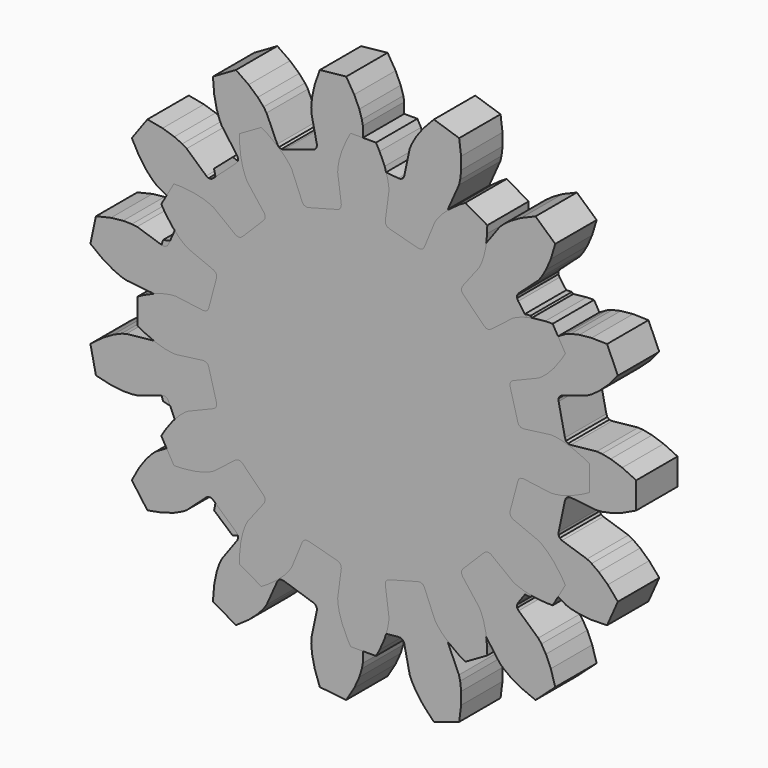
from build123d import *

# Parameters (mm, degrees)
F0_R     = 3.75
F1_DEPTH = 4
F3_DEPTH = 4
F5_DEPTH = 4
F7_DEPTH = 4
F9_DEPTH = 4


with BuildPart() as f1:
    # F0 (on Front) → F1 (new body)
    with BuildSketch(Plane.XZ):
        Polygon((7.89731, -9.5143), (9.06407, -8.12381), (8.97309, -7.83051), (8.64252, -7.00031), (8.29155, -6.35894), (7.96011, -5.89686), (7.68526, -5.5978), (7.50014, -5.43929), (5.57241, -4.33292), (5.42795, -4.19005), (5.37428, -3.99409), (5.42578, -3.79756), (6.12261, -1.88303), (6.20949, -1.69937), (6.37657, -1.58376), (6.57906, -1.56718), (8.76695, -1.95876), (9.01065, -1.95633), (9.41343, -1.90391), (9.96434, -1.76298), (10.64546, -1.49726), (11.43233, -1.07378), (11.69056, -0.90758), (11.69056, 0.90758), (11.43233, 1.07378), (10.64546, 1.49726), (9.96434, 1.76298), (9.41343, 1.90391), (9.01065, 1.95633), (8.76695, 1.95876), (6.57906, 1.56718), (6.37657, 1.58376), (6.20949, 1.69937), (6.12261, 1.88303), (5.42578, 3.79756), (5.37428, 3.99409), (5.42795, 4.19005), (5.57241, 4.33292), (7.50014, 5.43929), (7.68526, 5.5978), (7.96011, 5.89686), (8.29155, 6.35894), (8.64252, 7.00031), (8.97309, 7.83051), (9.06407, 8.12381), (7.89731, 9.5143), (7.59266, 9.47563), (6.71768, 9.29424), (6.0251, 9.05998), (5.5125, 8.81382), (5.17025, 8.59508), (4.982, 8.44029), (3.55769, 6.73397), (3.39191, 6.61652), (3.18961, 6.59769), (3.005, 6.68253), (1.24056, 7.70122), (1.07478, 7.81868), (0.98994, 8.00329), (1.00877, 8.20559), (1.77433, 10.29224), (1.81426, 10.53266), (1.83257, 10.93843), (1.78945, 11.50544), (1.64604, 12.22235), (1.36563, 13.07081), (1.2468, 13.35398), (-0.54078, 13.66918), (-0.7493, 13.44373), (-1.30299, 12.74235), (-1.68295, 12.11772), (-1.9174, 11.59965), (-2.03897, 11.21209), (-2.08368, 10.97251), (-2.07797, 8.74987), (-2.12946, 8.55333), (-2.27233, 8.40887), (-2.46828, 8.3552), (-4.47473, 8.00141), (-4.67722, 7.98482), (-4.86088, 8.0717), (-4.97649, 8.23878), (-5.73131, 10.32934), (-5.85526, 10.53917), (-6.10206, 10.86178), (-6.49956, 11.26842), (-7.07024, 11.72543), (-7.83042, 12.19514), (-8.10347, 12.33567), (-9.67544, 11.42809), (-9.69026, 11.12136), (-9.66357, 10.22817), (-9.55313, 9.50544), (-9.39972, 8.95787), (-9.24373, 8.58284), (-9.12399, 8.37057), (-7.69092, 6.6716), (-7.60404, 6.48794), (-7.62062, 6.28545), (-7.73623, 6.11837), (-9.04584, 4.55764), (-9.1903, 4.41477), (-9.38684, 4.36328), (-9.5828, 4.41695), (-11.50481, 5.53322), (-11.73464, 5.61429), (-12.13106, 5.70278), (-12.69695, 5.75878), (-13.42788, 5.74204), (-14.31213, 5.61322), (-14.61164, 5.54537), (-15.23246, 3.83968), (-15.04664, 3.59518), (-14.45206, 2.92811), (-13.9029, 2.44546), (-13.43341, 2.12461), (-13.07285, 1.93758), (-12.84468, 1.85195), (-10.65481, 1.47162), (-10.4702, 1.38678), (-10.35274, 1.221), (-10.33391, 1.0187), (-10.33391, -1.0187), (-10.35274, -1.221), (-10.4702, -1.38678), (-10.65481, -1.47162), (-12.84468, -1.85195), (-13.07285, -1.93758), (-13.43341, -2.12461), (-13.9029, -2.44546), (-14.45206, -2.92811), (-15.04664, -3.59518), (-15.23246, -3.83968), (-14.61164, -5.54537), (-14.31213, -5.61322), (-13.42788, -5.74204), (-12.69695, -5.75878), (-12.13106, -5.70278), (-11.73464, -5.61429), (-11.50481, -5.53322), (-9.5828, -4.41695), (-9.38684, -4.36328), (-9.1903, -4.41477), (-9.04584, -4.55764), (-7.73623, -6.11837), (-7.62062, -6.28545), (-7.60404, -6.48794), (-7.69092, -6.6716), (-9.12399, -8.37057), (-9.24373, -8.58284), (-9.39972, -8.95787), (-9.55313, -9.50544), (-9.66357, -10.22817), (-9.69026, -11.12136), (-9.67544, -11.42809), (-8.10347, -12.33567), (-7.83042, -12.19514), (-7.07024, -11.72543), (-6.49956, -11.26842), (-6.10206, -10.86178), (-5.85526, -10.53917), (-5.73131, -10.32934), (-4.97649, -8.23878), (-4.86088, -8.0717), (-4.67722, -7.98482), (-4.47473, -8.00141), (-2.46828, -8.3552), (-2.27233, -8.40887), (-2.12946, -8.55333), (-2.07797, -8.74987), (-2.08368, -10.97251), (-2.03897, -11.21209), (-1.9174, -11.59965), (-1.68295, -12.11772), (-1.30299, -12.74235), (-0.7493, -13.44373), (-0.54078, -13.66918), (1.2468, -13.35398), (1.36563, -13.07081), (1.64604, -12.22235), (1.78945, -11.50544), (1.83257, -10.93843), (1.81426, -10.53266), (1.77433, -10.29224), (1.00877, -8.20559), (0.98994, -8.00329), (1.07478, -7.81868), (1.24056, -7.70122), (3.005, -6.68253), (3.18961, -6.59769), (3.39191, -6.61652), (3.55769, -6.73397), (4.982, -8.44029), (5.17025, -8.59508), (5.5125, -8.81382), (6.0251, -9.05998), (6.71768, -9.29424), (7.59266, -9.47563), align=None)
        with Locations((-2.02945, 0)):
            Circle(F0_R, mode=Mode.SUBTRACT)
    extrude(amount=F1_DEPTH)


with BuildPart() as f3:
    # F2 (on Front) → F3 (new body)
    with BuildSketch(Plane.XZ):
        Polygon((11.56193, -9.55625), (12.66136, -8.043), (12.24856, -7.14688), (11.82184, -6.45563), (11.42721, -5.96219), (11.10485, -5.64633), (10.89022, -5.48122), (8.9351, -4.49043), (8.78336, -4.35532), (8.71951, -4.16244), (8.76065, -3.96348), (9.41719, -1.94286), (9.50085, -1.75771), (9.66588, -1.6392), (9.86806, -1.61909), (12.03215, -1.96671), (12.30284, -1.95929), (12.74929, -1.89324), (13.35859, -1.72599), (14.11012, -1.41758), (14.97082, -0.93524), (14.97082, 0.93524), (14.11012, 1.41758), (13.35859, 1.72599), (12.74929, 1.89324), (12.30284, 1.95929), (12.03215, 1.96671), (9.86806, 1.61909), (9.66588, 1.6392), (9.50085, 1.75771), (9.41719, 1.94286), (8.76065, 3.96348), (8.71951, 4.16244), (8.78336, 4.35532), (8.9351, 4.49043), (10.89022, 5.48122), (11.10485, 5.64633), (11.42721, 5.96219), (11.82184, 6.45563), (12.24856, 7.14688), (12.66136, 8.043), (11.56193, 9.55625), (10.5821, 9.44057), (9.79281, 9.24834), (9.20158, 9.02551), (8.80157, 8.81653), (8.57821, 8.66343), (7.03175, 7.11017), (6.85636, 7.00761), (6.65319, 7.00648), (6.47668, 7.10709), (4.75784, 8.3559), (4.60761, 8.49269), (4.5459, 8.68626), (4.58924, 8.88476), (5.5886, 10.83551), (5.66518, 11.09525), (5.74032, 11.54026), (5.76955, 12.17141), (5.70847, 12.98147), (5.5157, 13.94909), (3.73677, 14.5271), (3.01207, 13.85758), (2.48652, 13.23813), (2.13917, 12.71034), (1.93839, 12.30615), (1.84768, 12.05101), (1.50956, 9.88541), (1.42795, 9.69934), (1.26424, 9.57901), (1.0623, 9.55665), (-1.0623, 9.55665), (-1.26424, 9.57901), (-1.42795, 9.69934), (-1.50956, 9.88541), (-1.84768, 12.05101), (-1.93839, 12.30615), (-2.13917, 12.71034), (-2.48652, 13.23813), (-3.01207, 13.85758), (-3.73677, 14.5271), (-5.5157, 13.94909), (-5.70847, 12.98147), (-5.76955, 12.17141), (-5.74032, 11.54026), (-5.66518, 11.09525), (-5.5886, 10.83551), (-4.58924, 8.88476), (-4.5459, 8.68626), (-4.60761, 8.49269), (-4.75784, 8.3559), (-6.47668, 7.10709), (-6.65319, 7.00648), (-6.85636, 7.00761), (-7.03175, 7.11017), (-8.57821, 8.66343), (-8.80157, 8.81653), (-9.20158, 9.02551), (-9.79281, 9.24834), (-10.5821, 9.44057), (-11.56193, 9.55625), (-12.66136, 8.043), (-12.24856, 7.14688), (-11.82184, 6.45563), (-11.42721, 5.96219), (-11.10485, 5.64633), (-10.89022, 5.48122), (-8.9351, 4.49043), (-8.78336, 4.35532), (-8.71951, 4.16244), (-8.76065, 3.96348), (-9.41719, 1.94286), (-9.50085, 1.75771), (-9.66588, 1.6392), (-9.86806, 1.61909), (-12.03215, 1.96671), (-12.30284, 1.95929), (-12.74929, 1.89324), (-13.35859, 1.72599), (-14.11012, 1.41758), (-14.97082, 0.93524), (-14.97082, -0.93524), (-14.11012, -1.41758), (-13.35859, -1.72599), (-12.74929, -1.89324), (-12.30284, -1.95929), (-12.03215, -1.96671), (-9.86806, -1.61909), (-9.66588, -1.6392), (-9.50085, -1.75771), (-9.41719, -1.94286), (-8.76065, -3.96348), (-8.71951, -4.16244), (-8.78336, -4.35532), (-8.9351, -4.49043), (-10.89022, -5.48122), (-11.10485, -5.64633), (-11.42721, -5.96219), (-11.82184, -6.45563), (-12.24856, -7.14688), (-12.66136, -8.043), (-11.56193, -9.55625), (-10.5821, -9.44057), (-9.79281, -9.24834), (-9.20158, -9.02551), (-8.80157, -8.81653), (-8.57821, -8.66343), (-7.03175, -7.11017), (-6.85636, -7.00761), (-6.65319, -7.00648), (-6.47668, -7.10709), (-4.75784, -8.3559), (-4.60761, -8.49269), (-4.5459, -8.68626), (-4.58924, -8.88476), (-5.5886, -10.83551), (-5.66518, -11.09525), (-5.74032, -11.54026), (-5.76955, -12.17141), (-5.70847, -12.98147), (-5.5157, -13.94909), (-3.73677, -14.5271), (-3.01207, -13.85758), (-2.48652, -13.23813), (-2.13917, -12.71034), (-1.93839, -12.30615), (-1.84768, -12.05101), (-1.50956, -9.88541), (-1.42795, -9.69934), (-1.26424, -9.57901), (-1.0623, -9.55665), (1.0623, -9.55665), (1.26424, -9.57901), (1.42795, -9.69934), (1.50956, -9.88541), (1.84768, -12.05101), (1.93839, -12.30615), (2.13917, -12.71034), (2.48652, -13.23813), (3.01207, -13.85758), (3.73677, -14.5271), (5.5157, -13.94909), (5.70847, -12.98147), (5.76955, -12.17141), (5.74032, -11.54026), (5.66518, -11.09525), (5.5886, -10.83551), (4.58924, -8.88476), (4.5459, -8.68626), (4.60761, -8.49269), (4.75784, -8.3559), (6.47668, -7.10709), (6.65319, -7.00648), (6.85636, -7.00761), (7.03175, -7.11017), (8.57821, -8.66343), (8.80157, -8.81653), (9.20158, -9.02551), (9.79281, -9.24834), (10.5821, -9.44057), align=None)
        Polygon((2.47861, 0.32632), (2.5, 0), (2.47861, -0.32632), (2.41481, -0.64705), (2.3097, -0.95671), (2.16506, -1.25), (1.98338, -1.5219), (1.76777, -1.76777), (1.5219, -1.98338), (1.25, -2.16506), (0.95671, -2.3097), (0.64705, -2.41481), (0.32632, -2.47861), (0, -2.5), (-0.32632, -2.47861), (-0.64705, -2.41481), (-0.95671, -2.3097), (-1.25, -2.16506), (-1.5219, -1.98338), (-1.76777, -1.76777), (-1.98338, -1.5219), (-2.16506, -1.25), (-2.3097, -0.95671), (-2.41481, -0.64705), (-2.47861, -0.32632), (-2.5, 0), (-2.47861, 0.32632), (-2.41481, 0.64705), (-2.3097, 0.95671), (-2.16506, 1.25), (-1.98338, 1.5219), (-1.76777, 1.76777), (-1.5219, 1.98338), (-1.25, 2.16506), (-0.95671, 2.3097), (-0.64705, 2.41481), (-0.32632, 2.47861), (0, 2.5), (0.32632, 2.47861), (0.64705, 2.41481), (0.95671, 2.3097), (1.25, 2.16506), (1.5219, 1.98338), (1.76777, 1.76777), (1.98338, 1.5219), (2.16506, 1.25), (2.3097, 0.95671), (2.41481, 0.64705), align=None, mode=Mode.SUBTRACT)
    extrude(amount=F3_DEPTH)


with BuildPart() as f5:
    # F4 (on Front) → F5 (new body)
    with BuildSketch(Plane.XZ):
        Polygon((12.93465, -9.5768), (13.97151, -7.96341), (13.60427, -7.27733), (13.10274, -6.53775), (12.64581, -6.01406), (12.27665, -5.68212), (12.033, -5.51078), (10.06565, -4.6166), (9.90826, -4.48812), (9.8362, -4.29815), (9.86878, -4.09761), (10.48677, -1.99294), (10.56778, -1.80662), (10.73111, -1.68576), (10.93297, -1.66276), (13.07144, -1.97417), (13.36905, -1.96175), (13.85906, -1.88209), (14.52659, -1.68857), (15.34835, -1.33755), (16.02821, -0.95892), (16.02821, 0.95892), (15.34835, 1.33755), (14.52659, 1.68857), (13.85906, 1.88209), (13.36905, 1.96175), (13.07144, 1.97417), (10.93297, 1.66276), (10.73111, 1.68576), (10.56778, 1.80662), (10.48677, 1.99294), (9.86878, 4.09761), (9.8362, 4.29815), (9.90826, 4.48812), (10.06565, 4.6166), (12.033, 5.51078), (12.27665, 5.68212), (12.64581, 6.01406), (13.10274, 6.53775), (13.60427, 7.27733), (13.97151, 7.96341), (12.93465, 9.5768), (12.15801, 9.52776), (11.27692, 9.37878), (10.61074, 9.18069), (10.15545, 8.98278), (9.89837, 8.83233), (8.26773, 7.41421), (8.08548, 7.32443), (7.88274, 7.3378), (7.71386, 7.45074), (6.0561, 8.88719), (5.92027, 9.03829), (5.87819, 9.23705), (5.94112, 9.43023), (7.11274, 11.24609), (7.22508, 11.52196), (7.35617, 12.00078), (7.45744, 12.68838), (7.47951, 13.5817), (7.41752, 14.35741), (5.673, 15.15411), (5.04616, 14.69297), (4.38549, 14.0913), (3.93215, 13.56448), (3.65613, 13.15185), (3.52121, 12.88629), (2.91612, 10.8117), (2.81134, 10.63764), (2.63356, 10.53928), (2.43042, 10.54299), (0.25923, 10.85516), (0.06327, 10.90883), (-0.07959, 11.05329), (-0.13109, 11.24983), (-0.12719, 13.41085), (-0.18183, 13.70366), (-0.33042, 14.17735), (-0.61697, 14.81054), (-1.08137, 15.57398), (-1.5529, 16.19304), (-3.45122, 15.9201), (-3.72923, 15.19327), (-3.95973, 14.32992), (-4.05629, 13.64165), (-4.0654, 13.14529), (-4.03534, 12.84894), (-3.42276, 10.77656), (-3.4168, 10.57347), (-3.51318, 10.39461), (-3.68608, 10.28791), (-5.68138, 9.37669), (-5.87524, 9.3159), (-6.07353, 9.36018), (-6.22311, 9.49768), (-7.38816, 11.31776), (-7.59244, 11.53454), (-7.97353, 11.8527), (-8.55693, 12.23046), (-9.36035, 12.62163), (-10.09171, 12.88749), (-11.54112, 11.63157), (-11.38205, 10.86982), (-11.1092, 10.0189), (-10.81831, 9.38769), (-10.55763, 8.9652), (-10.37212, 8.73215), (-8.73637, 7.31993), (-8.62156, 7.1523), (-8.60594, 6.94973), (-8.6937, 6.76649), (-9.87961, 4.92118), (-10.00984, 4.76523), (-10.20059, 4.69529), (-10.40076, 4.73009), (-12.36487, 5.63136), (-12.65393, 5.70329), (-13.14653, 5.76491), (-13.84154, 5.76729), (-14.72891, 5.662), (-15.4879, 5.49025), (-16.02822, 3.6501), (-15.48257, 3.09527), (-14.79299, 2.52695), (-14.20702, 2.1532), (-13.7593, 1.93872), (-13.47725, 1.84296), (-11.33767, 1.53927), (-11.15046, 1.46033), (-11.0278, 1.29836), (-11.00256, 1.09676), (-11.00256, -1.09676), (-11.0278, -1.29836), (-11.15046, -1.46033), (-11.33767, -1.53927), (-13.47725, -1.84296), (-13.7593, -1.93872), (-14.20702, -2.1532), (-14.79299, -2.52695), (-15.48257, -3.09527), (-16.02822, -3.6501), (-15.4879, -5.49025), (-14.72891, -5.662), (-13.84154, -5.76729), (-13.14653, -5.76491), (-12.65393, -5.70329), (-12.36487, -5.63136), (-10.40076, -4.73009), (-10.20059, -4.69529), (-10.00984, -4.76523), (-9.87961, -4.92118), (-8.6937, -6.76649), (-8.60594, -6.94973), (-8.62156, -7.1523), (-8.73637, -7.31993), (-10.37212, -8.73215), (-10.55763, -8.9652), (-10.81831, -9.38769), (-11.1092, -10.0189), (-11.38205, -10.86982), (-11.54112, -11.63157), (-10.09171, -12.88749), (-9.36035, -12.62163), (-8.55693, -12.23046), (-7.97353, -11.8527), (-7.59244, -11.53454), (-7.38816, -11.31776), (-6.22311, -9.49768), (-6.07353, -9.36018), (-5.87524, -9.3159), (-5.68138, -9.37669), (-3.68608, -10.28791), (-3.51318, -10.39461), (-3.4168, -10.57347), (-3.42276, -10.77656), (-4.03534, -12.84894), (-4.0654, -13.14529), (-4.05629, -13.64165), (-3.95973, -14.32992), (-3.72923, -15.19327), (-3.45122, -15.9201), (-1.5529, -16.19304), (-1.08137, -15.57398), (-0.61697, -14.81054), (-0.33042, -14.17735), (-0.18183, -13.70366), (-0.12719, -13.41085), (-0.13109, -11.24983), (-0.07959, -11.05329), (0.06327, -10.90883), (0.25923, -10.85516), (2.43042, -10.54299), (2.63356, -10.53928), (2.81134, -10.63764), (2.91612, -10.8117), (3.52121, -12.88629), (3.65613, -13.15185), (3.93215, -13.56448), (4.38549, -14.0913), (5.04616, -14.69297), (5.673, -15.15411), (7.41752, -14.35741), (7.47951, -13.5817), (7.45744, -12.68838), (7.35617, -12.00078), (7.22508, -11.52196), (7.11274, -11.24609), (5.94112, -9.43023), (5.87819, -9.23705), (5.92027, -9.03829), (6.0561, -8.88719), (7.71386, -7.45074), (7.88274, -7.3378), (8.08548, -7.32443), (8.26773, -7.41421), (9.89837, -8.83233), (10.15545, -8.98278), (10.61074, -9.18069), (11.27692, -9.37878), (12.15801, -9.52776), align=None)
        Polygon((2.28514, 0.32632), (2.30653, 0), (2.28514, -0.32632), (2.22134, -0.64705), (2.11623, -0.95671), (1.97159, -1.25), (1.78991, -1.5219), (1.5743, -1.76777), (1.32843, -1.98338), (1.05653, -2.16506), (0.76324, -2.3097), (0.45358, -2.41481), (0.13285, -2.47861), (-0.19347, -2.5), (-0.51979, -2.47861), (-0.84052, -2.41481), (-1.15018, -2.3097), (-1.44347, -2.16506), (-1.71537, -1.98338), (-1.96124, -1.76777), (-2.17685, -1.5219), (-2.35853, -1.25), (-2.50317, -0.95671), (-2.60828, -0.64705), (-2.67208, -0.32632), (-2.69347, 0), (-2.67208, 0.32632), (-2.60828, 0.64705), (-2.50317, 0.95671), (-2.35853, 1.25), (-2.17685, 1.5219), (-1.96124, 1.76777), (-1.71537, 1.98338), (-1.44347, 2.16506), (-1.15018, 2.3097), (-0.84052, 2.41481), (-0.51979, 2.47861), (-0.19347, 2.5), (0.13285, 2.47861), (0.45358, 2.41481), (0.76324, 2.3097), (1.05653, 2.16506), (1.32843, 1.98338), (1.5743, 1.76777), (1.78991, 1.5219), (1.97159, 1.25), (2.11623, 0.95671), (2.22134, 0.64705), align=None, mode=Mode.SUBTRACT)
    extrude(amount=F5_DEPTH)


with BuildPart() as f7:
    # F6 (on Front) → F7 (new body)
    with BuildSketch(Plane.XZ):
        Polygon((18.84696, -9.57211), (19.68317, -7.69396), (18.90421, -6.7902), (18.20377, -6.15176), (17.65207, -5.75945), (17.29534, -5.56519), (15.35722, -4.93576), (15.18622, -4.82605), (15.09298, -4.64553), (15.10249, -4.44258), (15.59296, -2.1351), (15.66682, -1.94582), (15.82542, -1.81884), (16.02626, -1.78817), (18.05284, -2.00146), (18.45773, -1.96908), (19.12131, -1.83509), (20.02087, -1.53674), (21.10007, -1.02795), (21.10007, 1.02795), (20.02087, 1.53674), (19.12131, 1.83509), (18.45773, 1.96908), (18.05284, 2.00146), (16.02626, 1.78817), (15.82542, 1.81884), (15.66682, 1.94582), (15.59296, 2.1351), (15.10249, 4.44258), (15.09298, 4.64553), (15.18622, 4.82605), (15.35722, 4.93576), (17.29534, 5.56519), (17.65207, 5.75945), (18.20377, 6.15176), (18.90421, 6.7902), (19.68317, 7.69396), (18.84696, 9.57211), (17.65412, 9.59796), (16.71097, 9.50464), (16.05027, 9.35715), (15.66721, 9.22203), (13.90259, 8.20291), (13.70664, 8.14923), (13.5101, 8.20073), (13.36564, 8.3436), (11.97903, 10.2521), (11.8878, 10.43363), (11.89956, 10.63647), (12.01116, 10.80625), (13.5257, 12.16957), (13.77257, 12.49213), (14.11702, 13.07491), (14.49722, 13.94306), (14.84124, 15.08551), (13.31341, 16.46117), (12.21318, 15.99962), (11.38954, 15.53075), (10.84595, 15.12727), (10.55096, 14.84804), (9.35342, 13.19929), (9.19623, 13.07055), (8.99574, 13.03766), (8.80566, 13.10941), (6.76268, 14.28893), (6.60549, 14.41767), (6.53374, 14.60774), (6.56663, 14.80824), (7.39572, 16.66972), (7.49006, 17.0648), (7.56768, 17.7373), (7.56191, 18.68503), (7.41151, 19.86864), (5.45624, 20.50394), (4.63886, 19.63479), (4.07712, 18.87145), (3.74464, 18.28176), (3.58873, 17.90669), (3.16533, 15.91339), (3.0741, 15.73185), (2.90432, 15.62025), (2.70148, 15.60849), (0.35537, 15.85508), (0.15942, 15.90875), (0.01655, 16.05321), (-0.03495, 16.24975), (-0.03467, 18.28752), (-0.10918, 18.68681), (-0.3118, 19.33274), (-0.70255, 20.19619), (-1.32136, 21.2163), (-3.366, 21.0014), (-3.75919, 19.87493), (-3.96188, 18.94911), (-4.02578, 18.27516), (-4.01565, 17.8691), (-3.5917, 15.87592), (-3.60121, 15.67297), (-3.71091, 15.50196), (-3.89143, 15.40872), (-6.13501, 14.67974), (-6.33585, 14.64907), (-6.52512, 14.72293), (-6.65211, 14.88153), (-7.48068, 16.74324), (-7.71117, 17.0777), (-8.15899, 17.58538), (-8.86716, 18.21525), (-9.84738, 18.89547), (-11.62784, 17.86752), (-11.52886, 16.67851), (-11.33747, 15.75029), (-11.12172, 15.10862), (-10.94731, 14.74179), (-9.74931, 13.09336), (-9.67545, 12.90409), (-9.70612, 12.70325), (-9.8331, 12.54464), (-11.58621, 10.96614), (-11.75721, 10.85643), (-11.96016, 10.84692), (-12.14068, 10.94016), (-13.65485, 12.30391), (-14.00144, 12.51571), (-14.61704, 12.79735), (-15.52017, 13.08472), (-16.69232, 13.30744), (-17.90075, 11.64419), (-17.32671, 10.59823), (-16.77432, 9.8281), (-16.31624, 9.32967), (-16.0077, 9.06548), (-14.2428, 8.04684), (-14.09834, 7.90398), (-14.04467, 7.70802), (-14.09616, 7.51148), (-15.05567, 5.3564), (-15.16727, 5.18662), (-15.3488, 5.09538), (-15.55164, 5.10714), (-17.48958, 5.73711), (-17.89236, 5.78963), (-18.56929, 5.79654), (-19.51123, 5.69173), (-20.67263, 5.41844), (-21.10008, 3.40747), (-20.15024, 2.68542), (-19.33237, 2.20655), (-18.71115, 1.93752), (-18.32184, 1.82168), (-16.2952, 1.60895), (-16.10512, 1.53719), (-15.97639, 1.38001), (-15.94349, 1.17952), (-15.94349, -1.17952), (-15.97639, -1.38001), (-16.10512, -1.53719), (-16.2952, -1.60895), (-18.32184, -1.82168), (-18.71115, -1.93752), (-19.33237, -2.20655), (-20.15024, -2.68542), (-21.10008, -3.40747), (-20.67263, -5.41844), (-19.51123, -5.69173), (-18.56929, -5.79654), (-17.89236, -5.78963), (-17.48958, -5.73711), (-15.55164, -5.10714), (-15.3488, -5.09538), (-15.16727, -5.18662), (-15.05567, -5.3564), (-14.09616, -7.51148), (-14.04467, -7.70802), (-14.09834, -7.90398), (-14.2428, -8.04684), (-16.0077, -9.06548), (-16.31624, -9.32967), (-16.77432, -9.8281), (-17.32671, -10.59823), (-17.90075, -11.64419), (-16.69232, -13.30744), (-15.52017, -13.08472), (-14.61704, -12.79735), (-14.00144, -12.51571), (-13.65485, -12.30391), (-12.14068, -10.94016), (-11.96016, -10.84692), (-11.75721, -10.85643), (-11.58621, -10.96614), (-9.8331, -12.54464), (-9.70612, -12.70325), (-9.67545, -12.90409), (-9.74931, -13.09336), (-10.94731, -14.74179), (-11.12172, -15.10862), (-11.33747, -15.75029), (-11.52886, -16.67851), (-11.62784, -17.86752), (-9.84738, -18.89547), (-8.86716, -18.21525), (-8.15899, -17.58538), (-7.71117, -17.0777), (-7.48068, -16.74324), (-6.65211, -14.88153), (-6.52512, -14.72293), (-6.33585, -14.64907), (-6.13501, -14.67974), (-3.89143, -15.40872), (-3.71091, -15.50196), (-3.60121, -15.67297), (-3.5917, -15.87592), (-4.01565, -17.8691), (-4.02578, -18.27516), (-3.96188, -18.94911), (-3.75919, -19.87493), (-3.366, -21.0014), (-1.32136, -21.2163), (-0.70255, -20.19619), (-0.3118, -19.33274), (-0.10918, -18.68681), (-0.03467, -18.28752), (-0.03495, -16.24975), (0.01655, -16.05321), (0.15942, -15.90875), (0.35537, -15.85508), (2.70148, -15.60849), (2.90432, -15.62025), (3.0741, -15.73185), (3.16533, -15.91339), (3.58873, -17.90669), (3.74464, -18.28176), (4.07712, -18.87145), (4.63886, -19.63479), (5.45624, -20.50394), (7.41151, -19.86864), (7.56191, -18.68503), (7.56768, -17.7373), (7.49006, -17.0648), (7.39572, -16.66972), (6.56663, -14.80824), (6.53374, -14.60774), (6.60549, -14.41767), (6.76268, -14.28893), (8.80566, -13.10941), (8.99574, -13.03766), (9.19623, -13.07055), (9.35342, -13.19929), (10.55096, -14.84804), (10.84595, -15.12727), (11.38954, -15.53075), (12.21318, -15.99962), (13.31341, -16.46117), (14.84124, -15.08551), (14.49722, -13.94306), (14.11702, -13.07491), (13.77257, -12.49213), (13.5257, -12.16957), (12.01116, -10.80625), (11.89956, -10.63647), (11.8878, -10.43363), (11.97903, -10.2521), (13.36564, -8.3436), (13.5101, -8.20073), (13.70664, -8.14923), (13.90259, -8.20291), (15.66721, -9.22203), (16.05027, -9.35715), (16.71097, -9.50464), (17.65412, -9.59796), align=None)
        Polygon((2.35356, 0.32632), (2.37495, 0), (2.35356, -0.32632), (2.28976, -0.64705), (2.18465, -0.95671), (2.04001, -1.25), (1.85833, -1.5219), (1.64272, -1.76777), (1.39685, -1.98338), (1.12495, -2.16506), (0.83166, -2.3097), (0.522, -2.41481), (0.20127, -2.47861), (-0.12505, -2.5), (-0.45137, -2.47861), (-0.7721, -2.41481), (-1.08176, -2.3097), (-1.37505, -2.16506), (-1.64695, -1.98338), (-1.89282, -1.76777), (-2.10843, -1.5219), (-2.29011, -1.25), (-2.43475, -0.95671), (-2.53986, -0.64705), (-2.60366, -0.32632), (-2.62505, 0), (-2.60366, 0.32632), (-2.53986, 0.64705), (-2.43475, 0.95671), (-2.29011, 1.25), (-2.10843, 1.5219), (-1.89282, 1.76777), (-1.64695, 1.98338), (-1.37505, 2.16506), (-1.08176, 2.3097), (-0.7721, 2.41481), (-0.45137, 2.47861), (-0.12505, 2.5), (0.20127, 2.47861), (0.522, 2.41481), (0.83166, 2.3097), (1.12495, 2.16506), (1.39685, 1.98338), (1.64272, 1.76777), (1.85833, 1.5219), (2.04001, 1.25), (2.18465, 0.95671), (2.28976, 0.64705), align=None, mode=Mode.SUBTRACT)
    extrude(amount=F7_DEPTH)


with BuildPart() as f9:
    # F8 (on Front) → F9 (new body)
    with BuildSketch(Plane.XZ):
        Polygon((14.64194, -9.58455), (15.62143, -7.88802), (15.32585, -7.3966), (14.75028, -6.60983), (14.23173, -6.05669), (13.81635, -5.70918), (13.54404, -5.53186), (11.57484, -4.71944), (11.41297, -4.59665), (11.33418, -4.40937), (11.35958, -4.20779), (11.94158, -2.03573), (12.02037, -1.84846), (12.18224, -1.72567), (12.38382, -1.70027), (14.49542, -1.98129), (14.8199, -1.96388), (15.35338, -1.87062), (16.07903, -1.65086), (16.97088, -1.25728), (17.47257, -0.97949), (17.47257, 0.97949), (16.97088, 1.25728), (16.07903, 1.65086), (15.35338, 1.87062), (14.8199, 1.96388), (14.49542, 1.98129), (12.38382, 1.70027), (12.18224, 1.72567), (12.02037, 1.84846), (11.94158, 2.03573), (11.35958, 4.20779), (11.33418, 4.40937), (11.41297, 4.59665), (11.57484, 4.71944), (13.54404, 5.53186), (13.81635, 5.70918), (14.23173, 6.05669), (14.75028, 6.60983), (15.32585, 7.3966), (15.62143, 7.88802), (14.64194, 9.58455), (14.06857, 9.57428), (13.09942, 9.4692), (12.36111, 9.2967), (11.85247, 9.11072), (11.56275, 8.96355), (9.87457, 7.66439), (9.6873, 7.5856), (9.48572, 7.611), (9.32385, 7.73379), (7.73379, 9.32385), (7.611, 9.48572), (7.5856, 9.6873), (7.66439, 9.87457), (8.96355, 11.56275), (9.11072, 11.85247), (9.2967, 12.36111), (9.4692, 13.09942), (9.57428, 14.06857), (9.58455, 14.64194), (7.88802, 15.62143), (7.3966, 15.32585), (6.60983, 14.75028), (6.05669, 14.23173), (5.70918, 13.81635), (5.53186, 13.54404), (4.71944, 11.57484), (4.59665, 11.41297), (4.40937, 11.33418), (4.20779, 11.35958), (2.03573, 11.94158), (1.84846, 12.02037), (1.72567, 12.18224), (1.70027, 12.38382), (1.98129, 14.49542), (1.96388, 14.8199), (1.87062, 15.35338), (1.65086, 16.07903), (1.25728, 16.97088), (0.97949, 17.47257), (-0.97949, 17.47257), (-1.25728, 16.97088), (-1.65086, 16.07903), (-1.87062, 15.35338), (-1.96388, 14.8199), (-1.98129, 14.49542), (-1.70027, 12.38382), (-1.72567, 12.18224), (-1.84846, 12.02037), (-2.03573, 11.94158), (-4.20779, 11.35958), (-4.40937, 11.33418), (-4.59665, 11.41297), (-4.71944, 11.57484), (-5.53186, 13.54404), (-5.70918, 13.81635), (-6.05669, 14.23173), (-6.60983, 14.75028), (-7.3966, 15.32585), (-7.88802, 15.62143), (-9.58455, 14.64194), (-9.57428, 14.06857), (-9.4692, 13.09942), (-9.2967, 12.36111), (-9.11072, 11.85247), (-8.96355, 11.56275), (-7.66439, 9.87457), (-7.5856, 9.6873), (-7.611, 9.48572), (-7.73379, 9.32385), (-9.32385, 7.73379), (-9.48572, 7.611), (-9.6873, 7.5856), (-9.87457, 7.66439), (-11.56275, 8.96355), (-11.85247, 9.11072), (-12.36111, 9.2967), (-13.09942, 9.4692), (-14.06857, 9.57428), (-14.64194, 9.58455), (-15.62143, 7.88802), (-15.32585, 7.3966), (-14.75028, 6.60983), (-14.23173, 6.05669), (-13.81635, 5.70918), (-13.54404, 5.53186), (-11.57484, 4.71944), (-11.41297, 4.59665), (-11.33418, 4.40937), (-11.35958, 4.20779), (-11.94158, 2.03573), (-12.02037, 1.84846), (-12.18224, 1.72567), (-12.38382, 1.70027), (-14.49542, 1.98129), (-14.8199, 1.96388), (-15.35338, 1.87062), (-16.07903, 1.65086), (-16.97088, 1.25728), (-17.47257, 0.97949), (-17.47257, -0.97949), (-16.97088, -1.25728), (-16.07903, -1.65086), (-15.35338, -1.87062), (-14.8199, -1.96388), (-14.49542, -1.98129), (-12.38382, -1.70027), (-12.18224, -1.72567), (-12.02037, -1.84846), (-11.94158, -2.03573), (-11.35958, -4.20779), (-11.33418, -4.40937), (-11.41297, -4.59665), (-11.57484, -4.71944), (-13.54404, -5.53186), (-13.81635, -5.70918), (-14.23173, -6.05669), (-14.75028, -6.60983), (-15.32585, -7.3966), (-15.62143, -7.88802), (-14.64194, -9.58455), (-14.06857, -9.57428), (-13.09942, -9.4692), (-12.36111, -9.2967), (-11.85247, -9.11072), (-11.56275, -8.96355), (-9.87457, -7.66439), (-9.6873, -7.5856), (-9.48572, -7.611), (-9.32385, -7.73379), (-7.73379, -9.32385), (-7.611, -9.48572), (-7.5856, -9.6873), (-7.66439, -9.87457), (-8.96355, -11.56275), (-9.11072, -11.85247), (-9.2967, -12.36111), (-9.4692, -13.09942), (-9.57428, -14.06857), (-9.58455, -14.64194), (-7.88802, -15.62143), (-7.3966, -15.32585), (-6.60983, -14.75028), (-6.05669, -14.23173), (-5.70918, -13.81635), (-5.53186, -13.54404), (-4.71944, -11.57484), (-4.59665, -11.41297), (-4.40937, -11.33418), (-4.20779, -11.35958), (-2.03573, -11.94158), (-1.84846, -12.02037), (-1.72567, -12.18224), (-1.70027, -12.38382), (-1.98129, -14.49542), (-1.96388, -14.8199), (-1.87062, -15.35338), (-1.65086, -16.07903), (-1.25728, -16.97088), (-0.97949, -17.47257), (0.97949, -17.47257), (1.25728, -16.97088), (1.65086, -16.07903), (1.87062, -15.35338), (1.96388, -14.8199), (1.98129, -14.49542), (1.70027, -12.38382), (1.72567, -12.18224), (1.84846, -12.02037), (2.03573, -11.94158), (4.20779, -11.35958), (4.40937, -11.33418), (4.59665, -11.41297), (4.71944, -11.57484), (5.53186, -13.54404), (5.70918, -13.81635), (6.05669, -14.23173), (6.60983, -14.75028), (7.3966, -15.32585), (7.88802, -15.62143), (9.58455, -14.64194), (9.57428, -14.06857), (9.4692, -13.09942), (9.2967, -12.36111), (9.11072, -11.85247), (8.96355, -11.56275), (7.66439, -9.87457), (7.5856, -9.6873), (7.611, -9.48572), (7.73379, -9.32385), (9.32385, -7.73379), (9.48572, -7.611), (9.6873, -7.5856), (9.87457, -7.66439), (11.56275, -8.96355), (11.85247, -9.11072), (12.36111, -9.2967), (13.09942, -9.4692), (14.06857, -9.57428), align=None)
    extrude(amount=F9_DEPTH)


solid = Compound([f1.part, f3.part, f5.part, f7.part, f9.part])
